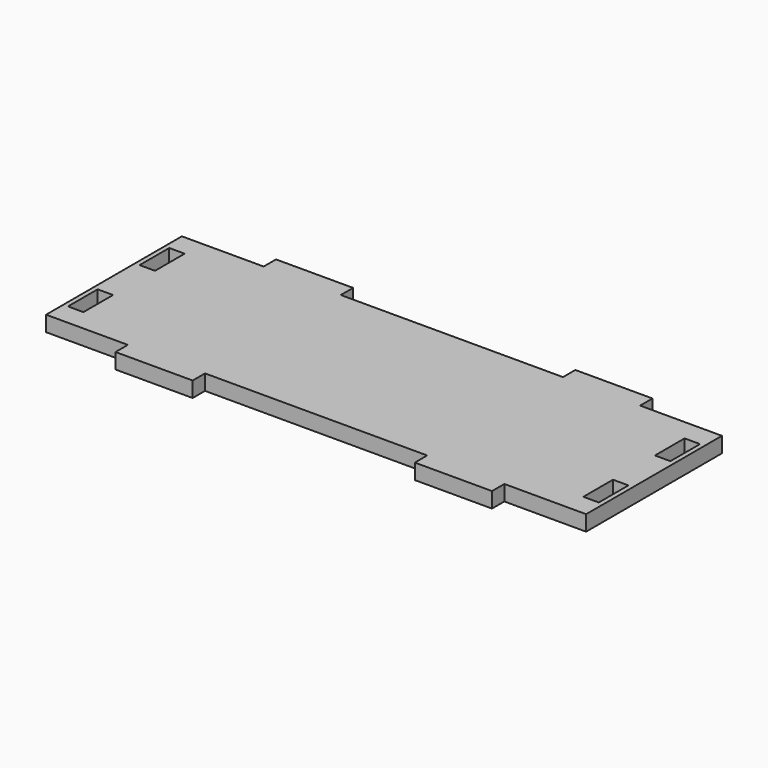
from build123d import *

# Parameters (mm, degrees)
F0_W     = 5
F0_H     = 12
F0_W_2   = 25
F0_H_2   = 5
F1_DEPTH = 5


with BuildPart() as f1:
    # F0 (on Top) → F1 (new body)
    with BuildSketch(Plane.XY):
        Polygon((87.5, -27.5), (87.5, 27.5), (61, 27.5), (36, 27.5), (-36, 27.5), (-61, 27.5), (-87.5, 27.5), (-87.5, -27.5), (-61, -27.5), (-36, -27.5), (36, -27.5), (61, -27.5), align=None)
        with Locations((-83.5, -14.5)):
            Rectangle(F0_W, F0_H, mode=Mode.SUBTRACT)
        with Locations((83.5, -14.5)):
            Rectangle(F0_W, F0_H, mode=Mode.SUBTRACT)
        with Locations((-83.5, 14.5)):
            Rectangle(F0_W, F0_H, mode=Mode.SUBTRACT)
        with Locations((83.5, 14.5)):
            Rectangle(F0_W, F0_H, mode=Mode.SUBTRACT)
        with Locations((-48.5, 30)):
            Rectangle(F0_W_2, F0_H_2)
        with Locations((48.5, 30)):
            Rectangle(F0_W_2, F0_H_2)
        with Locations((48.5, -30)):
            Rectangle(F0_W_2, F0_H_2)
        with Locations((-48.5, -30)):
            Rectangle(F0_W_2, F0_H_2)
    extrude(amount=F1_DEPTH)


solid = f1.part
